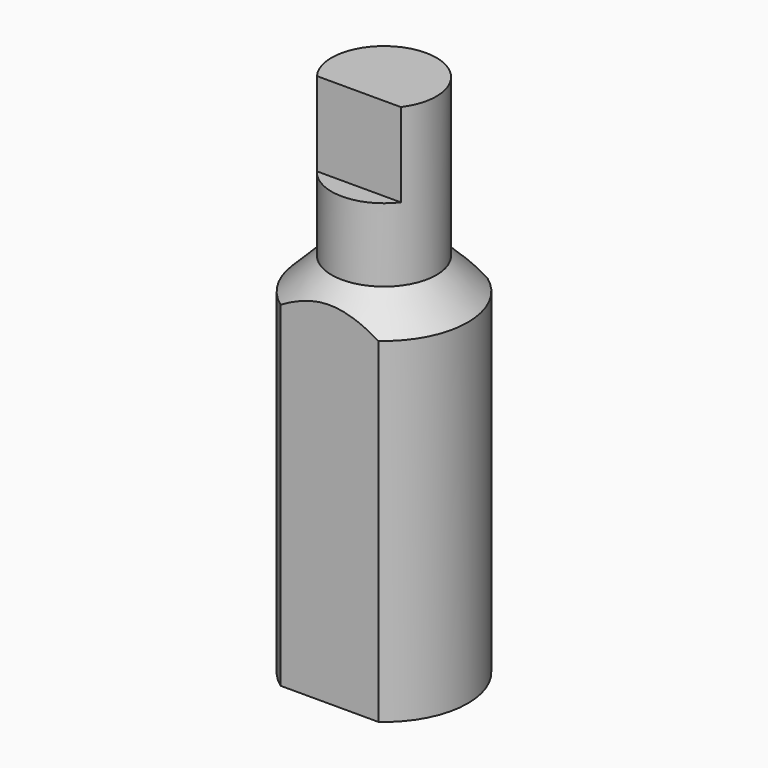
from build123d import *

# Parameters (mm, degrees)
F3_W     = 20
F3_H     = 8
F4_DEPTH = 10
F5_W     = 19.943191
F5_H     = 60
F6_DEPTH = 12.5


with BuildPart() as f1:
    # F0 (on Front) → F1 (revolve)
    with BuildSketch(Plane.XZ):
        Polygon((5, 0), (0, 0), (0, -50), (8, -50), (8, -18), (5, -15), align=None)
    revolve(axis=Axis((0, 0, -25), (0, 0, 1)))

    # F3 (on offset) → F4 (cut)
    with BuildSketch(Plane.XZ.offset(3)):
        with Locations((-0.236336, -4)):
            Rectangle(F3_W, F3_H)
    extrude(amount=F4_DEPTH, mode=Mode.SUBTRACT)

    # F5 (on Right) → F6 (cut, symmetric)
    with BuildSketch(Plane.YZ):
        with Locations((16.471595, -30)):
            Rectangle(F5_W, F5_H)
        with Locations((-16.471595, -30)):
            Rectangle(F5_W, F5_H)
    extrude(amount=F6_DEPTH, both=True, mode=Mode.SUBTRACT)


solid = f1.part
